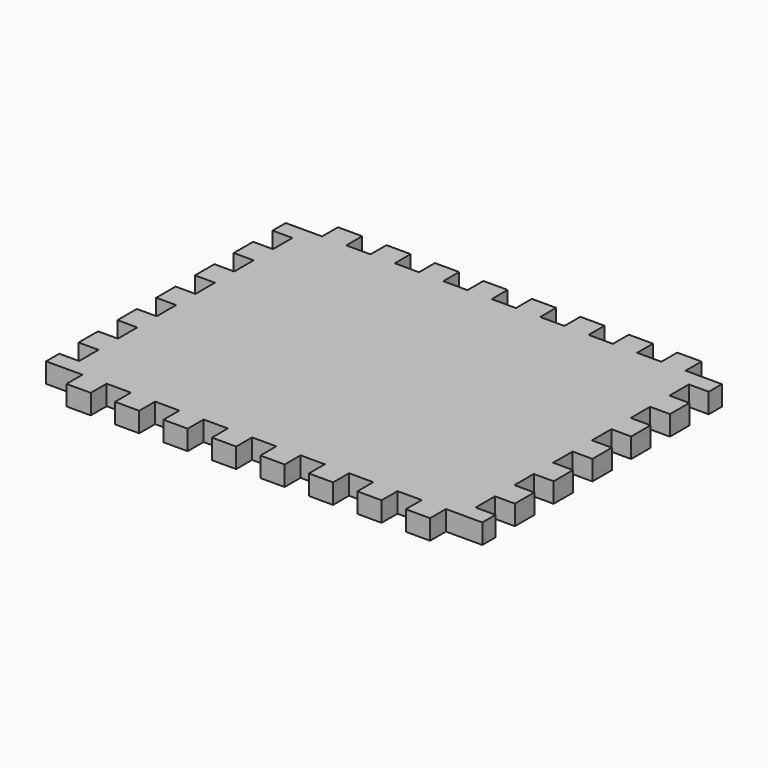
from build123d import *

# Parameters (mm, degrees)
F1_DEPTH = 10.414


with BuildPart() as f1:
    # F0 (on Top) → F1 (new body)
    with BuildSketch(Plane.XY):
        Polygon((31.75, 0), (19.05, 0), (19.05, -10.414), (0, -10.414), (0, -19.05), (10.414, -19.05), (10.414, -31.75), (0, -31.75), (0, -44.45), (10.414, -44.45), (10.414, -57.15), (0, -57.15), (0, -69.85), (10.414, -69.85), (10.414, -82.55), (0, -82.55), (0, -95.25), (10.414, -95.25), (10.414, -107.95), (0, -107.95), (0, -120.65), (10.414, -120.65), (10.414, -133.35), (0, -133.35), (0, -146.05), (10.414, -146.05), (10.414, -158.75), (0, -158.75), (0, -167.386), (19.05, -167.386), (19.05, -177.8), (31.75, -177.8), (31.75, -167.386), (44.45, -167.386), (44.45, -177.8), (57.15, -177.8), (57.15, -167.386), (69.85, -167.386), (69.85, -177.8), (82.55, -177.8), (82.55, -167.386), (95.25, -167.386), (95.25, -177.8), (107.95, -177.8), (107.95, -167.386), (120.65, -167.386), (120.65, -177.8), (133.35, -177.8), (133.35, -167.386), (146.05, -167.386), (146.05, -177.8), (158.75, -177.8), (158.75, -167.386), (171.45, -167.386), (171.45, -177.8), (184.15, -177.8), (184.15, -167.386), (196.85, -167.386), (196.85, -177.8), (209.55, -177.8), (209.55, -167.386), (228.6, -167.386), (228.6, -158.75), (218.186, -158.75), (218.186, -146.05), (228.6, -146.05), (228.6, -133.35), (218.186, -133.35), (218.186, -120.65), (228.6, -120.65), (228.6, -107.95), (218.186, -107.95), (218.186, -95.25), (228.6, -95.25), (228.6, -82.55), (218.186, -82.55), (218.186, -69.85), (228.6, -69.85), (228.6, -57.15), (218.186, -57.15), (218.186, -44.45), (228.6, -44.45), (228.6, -31.75), (218.186, -31.75), (218.186, -19.05), (228.6, -19.05), (228.6, -10.414), (209.55, -10.414), (209.55, 0), (196.85, 0), (196.85, -10.414), (184.15, -10.414), (184.15, 0), (171.45, 0), (171.45, -10.414), (158.75, -10.414), (158.75, 0), (146.05, 0), (146.05, -10.414), (133.35, -10.414), (133.35, 0), (120.65, 0), (120.65, -10.414), (107.95, -10.414), (107.95, 0), (95.25, 0), (95.25, -10.414), (82.55, -10.414), (82.55, 0), (69.85, 0), (69.85, -10.414), (57.15, -10.414), (57.15, 0), (44.45, 0), (44.45, -10.414), (31.75, -10.414), align=None)
    extrude(amount=F1_DEPTH)


solid = f1.part
